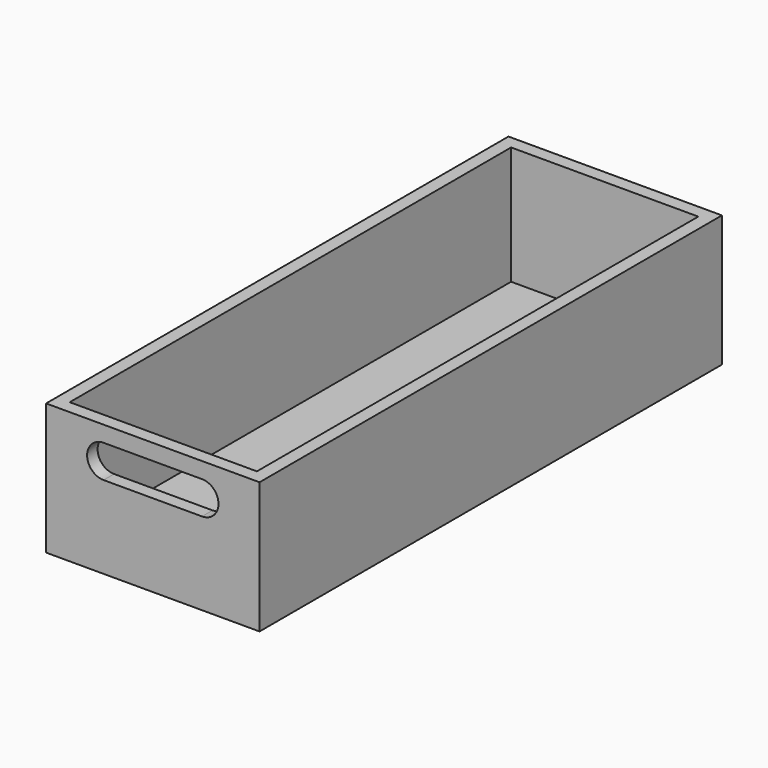
from build123d import *

# Parameters (mm, degrees)
F0_W     = 32.5
F0_H     = 20
F1_DEPTH = 88
F2_T     = -2
F4_DEPTH = 25


with BuildPart() as f1:
    # F0 (on Front) → F1 (new body)
    with BuildSketch(Plane.XZ):
        with Locations((16.25, -10)):
            Rectangle(F0_W, F0_H)
    extrude(amount=F1_DEPTH)

    # F2
    f2_openings = [f1.faces().sort_by_distance(p)[0] for p in [
        (16.25, -44, 0),
    ]]
    offset(amount=F2_T, openings=f2_openings)

    # F3 (on face) → F4 (cut)
    with BuildSketch(Plane.XZ.offset(88)):
        with BuildLine():
            Line((23.75, -2.428177), (8.75, -2.428177))
            ThreePointArc((8.75, -2.428177), (6.25, -4.928177), (8.75, -7.428177))
            Line((8.75, -7.428177), (23.75, -7.428177))
            ThreePointArc((23.75, -7.428177), (26.25, -4.928177), (23.75, -2.428177))
        make_face()
    extrude(amount=-F4_DEPTH, mode=Mode.SUBTRACT)


solid = f1.part
